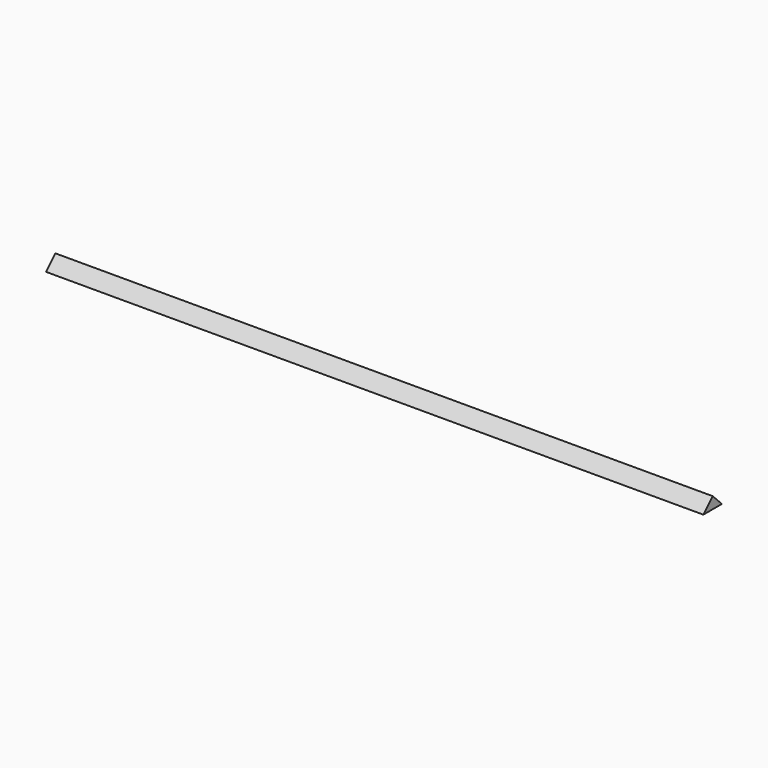
from build123d import *

# Parameters (mm, degrees)
F1_DEPTH = 200


with BuildPart() as f1:
    # F0 (on Right) → F1 (new body, symmetric)
    with BuildSketch(Plane.YZ):
        Polygon((0, 7.0710678119), (-7.0710678119, 0), (7.0710678119, 0), align=None)
    extrude(amount=F1_DEPTH, both=True)


solid = f1.part
